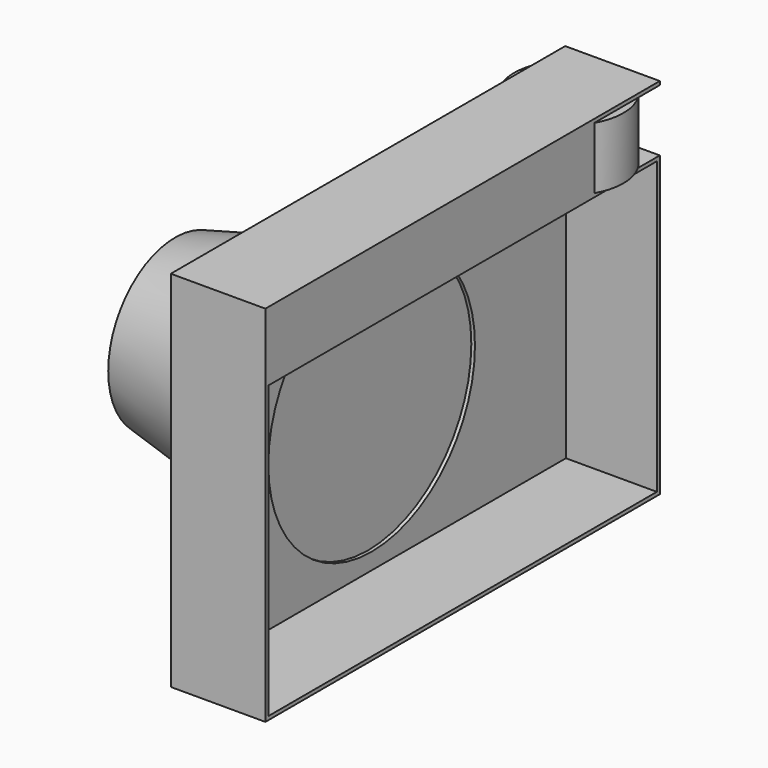
from build123d import *

# Parameters (mm, degrees)
F0_W      = 135.5
F0_H      = 82
F0_R      = 35.5
F1_DEPTH  = 1
F2_R      = 36
F4_R      = 23
F6_W      = 135.5
F6_H      = 82
F6_W_2    = 133.5
F6_H_2    = 80
F7_DEPTH  = 25
F8_R      = 15
F9_DEPTH  = 17
F11_DEPTH = 17
F12_W     = 26
F12_H     = 135.5
F13_DEPTH = 1
F14_W     = 8.678573
F14_H     = 5.408388
F14_W_2   = 10.062111
F15_DEPTH = 17.4


with BuildPart() as f1:
    # F0 (on Right) → F1 (new body)
    with BuildSketch(Plane.YZ):
        Rectangle(F0_W, F0_H)
        Circle(F0_R, mode=Mode.SUBTRACT)
    extrude(amount=F1_DEPTH)

    # F2 (on face) → F5 section 0
    with BuildSketch(Plane(origin=(0, 0, 0), x_dir=(0, -1, 0), z_dir=(-1, 0, 0))):
        Circle(F2_R)
    # F4 (on offset) → F5 section 1
    with BuildSketch(Plane.YZ.offset(-53)):
        Circle(F4_R)
    loft()

    # F6 (on face) → F7 (join)
    with BuildSketch(Plane.YZ.offset(1)):
        Rectangle(F6_W, F6_H)
        Rectangle(F6_W_2, F6_H_2, mode=Mode.SUBTRACT)
    extrude(amount=F7_DEPTH)

    # F8 (on face) → F9 (join)
    with BuildSketch(Plane.XY.offset(41)):
        with Locations((13, 52.75)):
            Circle(F8_R)
    extrude(amount=F9_DEPTH)

    # F10 (on face) → F11 (join)
    with BuildSketch(Plane.XY.offset(41)):
        with BuildLine():
            Line((0, -67.75), (26, -67.75))
            Line((26, -67.75), (26, 45.266685))
            ThreePointArc((26, 45.266685), (13, 37.770541), (0, 45.266685))
            Line((0, 45.266685), (0, -67.75))
        make_face()
        with BuildLine():
            Line((24.066526, -66.408634), (1.175221, -66.408634))
            Line((1.175221, -66.408634), (1.175221, 40.501304))
            ThreePointArc((1.175221, 40.501304), (12.523338, 35.811878), (24.066526, 39.9982))
            Line((24.066526, 39.9982), (24.066526, -66.408634))
        make_face(mode=Mode.SUBTRACT)
    extrude(amount=F11_DEPTH)

    # F12 (on face) → F13 (join)
    with BuildSketch(Plane.XY.offset(58)):
        with Locations((13, 0)):
            Rectangle(F12_W, F12_H)
    extrude(amount=F13_DEPTH)

    # F14 (on face) → F15 (cut)
    with BuildSketch(Plane(origin=(0, 0, 0), x_dir=(0, -1, 0), z_dir=(-1, 0, 0))):
        with Locations((22.075063, 50.707543)):
            Rectangle(F14_W, F14_H)
        with Locations((-14.84031, 50.707543)):
            Rectangle(F14_W_2, F14_H)
    extrude(amount=-F15_DEPTH, mode=Mode.SUBTRACT)


solid = f1.part
